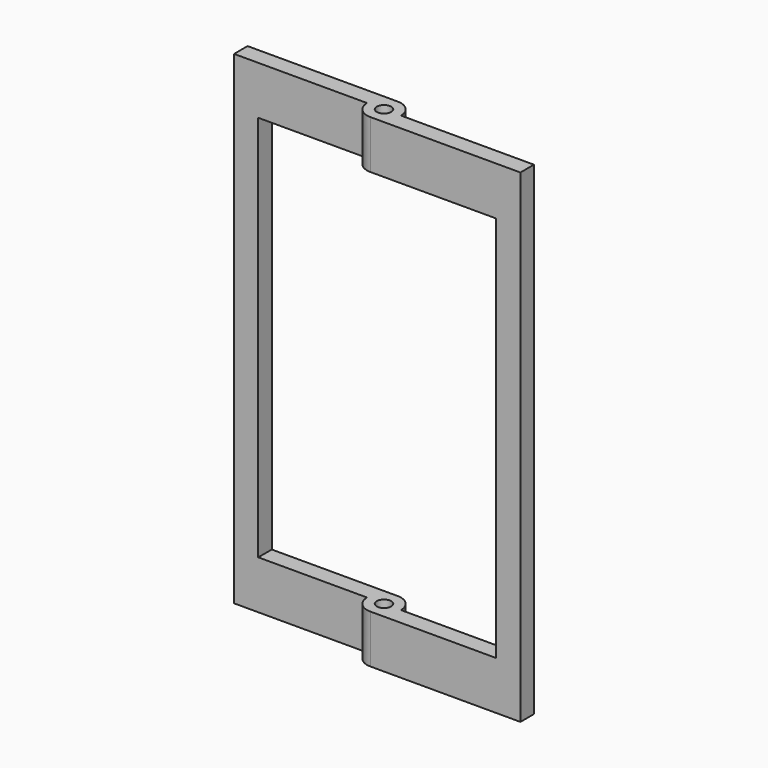
from build123d import *

# Parameters (mm, degrees)
F0_R     = 7.5
F1_DEPTH = 500
F3_DEPTH = 35.001


with BuildPart() as f1:
    # F0 (on Top) → F1 (new body)
    with BuildSketch(Plane.XY):
        with BuildLine():
            Line((-155, 0), (-17.5, 0))
            ThreePointArc((-17.5, 0), (-12.3743686708, -12.3743686708), (0, -17.5))
            Line((0, -17.5), (155, -17.5))
            Line((155, -17.5), (155, 0))
            Line((155, 0), (17.5, 0))
            ThreePointArc((17.5, 0), (12.3743686708, 12.3743686708), (0, 17.5))
            Line((0, 17.5), (-155, 17.5))
            Line((-155, 17.5), (-155, 0))
        make_face()
        Circle(F0_R, mode=Mode.SUBTRACT)
    extrude(amount=F1_DEPTH)

    # F2 (on face) → F3 (cut, through all)
    with BuildSketch(Plane.XZ.offset(17.5)):
        Polygon((-17.5, 450), (-130, 450), (-130, 50), (-17.5, 50), (0, 50), (130, 50), (130, 450), (0, 450), align=None)
    extrude(amount=-F3_DEPTH, mode=Mode.SUBTRACT)


solid = f1.part
